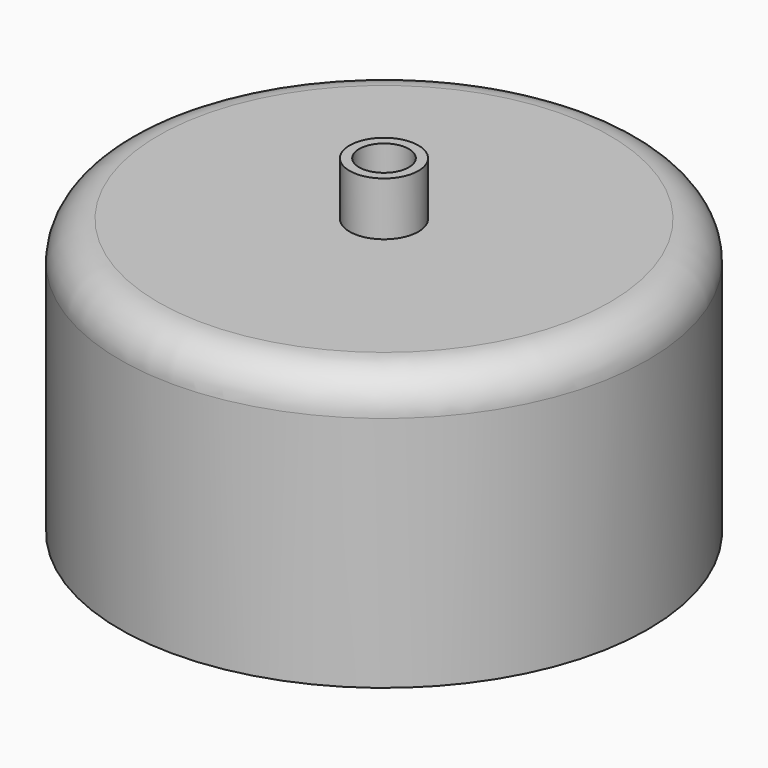
from build123d import *

# Parameters (mm, degrees)
F1_R     = 3.25
F3_DEPTH = 10
F0_R     = 34.5
F4_DEPTH = 36
F2_R     = 4.5
F5_DEPTH = 43
F6_R     = 5
F7_R     = 3.25
F8_DEPTH = 10


with BuildPart() as f3:
    # F1 (on Top) → F3 (new body)
    with BuildSketch(Plane.XY):
        Circle(F1_R)
    extrude(amount=F3_DEPTH)

    # F0 (on Top) → F4 (join)
    with BuildSketch(Plane.XY):
        Circle(F0_R)
    extrude(amount=F4_DEPTH)

    # F2 (on Top) → F5 (join)
    with BuildSketch(Plane.XY):
        Circle(F2_R)
    extrude(amount=F5_DEPTH)

    # F6
    f6_edges = [f3.edges().sort_by_distance(p)[0] for p in [
        (-34.5, 0, 36),
    ]]
    fillet(f6_edges, radius=F6_R)

    # F7 (on face) → F8 (cut)
    with BuildSketch(Plane.XY.offset(43)):
        Circle(F7_R)
    extrude(amount=-F8_DEPTH, mode=Mode.SUBTRACT)


solid = f3.part
